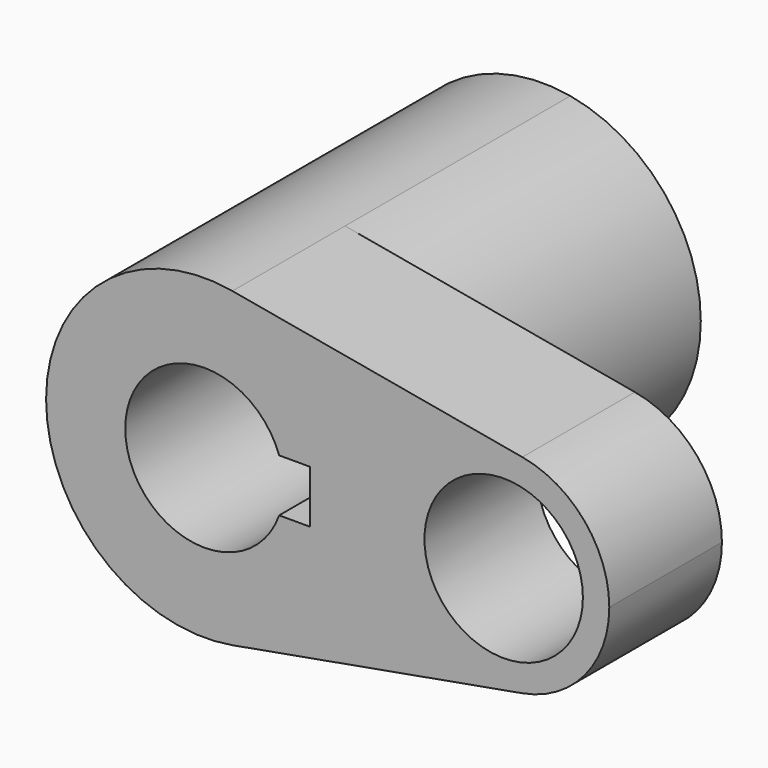
from build123d import *

# Parameters (mm, degrees)
F0_R     = 14.2875
F1_DEPTH = 25.4
F2_DEPTH = 50.8


with BuildPart() as f1:
    # F0 (on Front) → F1 (new body)
    with BuildSketch(Plane.XZ):
        with BuildLine():
            ThreePointArc((5.0426470588, -28.1265414802), (21.9160245563, -18.3362616868), (28.575, 0))
            ThreePointArc((28.575, 0), (21.9160245563, 18.3362616868), (5.0426470588, 28.1265414802))
            ThreePointArc((5.0426470588, 28.1265414802), (-28.575, 0), (5.0426470588, -28.1265414802))
        make_face()
        with BuildLine():
            ThreePointArc((-13.4703841816, 4.7625), (0, 14.2875), (13.4703841816, 4.7625))
            Line((13.4703841816, 4.7625), (19.05, 4.7625))
            Line((19.05, 4.7625), (19.05, -4.7625))
            Line((19.05, -4.7625), (13.4703841816, -4.7625))
            ThreePointArc((13.4703841816, -4.7625), (0, -14.2875), (-13.4703841816, -4.7625))
            Line((-13.4703841816, -4.7625), (-19.05, -4.7625))
            Line((-19.05, -4.7625), (-19.05, 4.7625))
            Line((-19.05, 4.7625), (-13.4703841816, 4.7625))
        make_face(mode=Mode.SUBTRACT)
        with BuildLine():
            ThreePointArc((73.025, 0), (68.5856830375, 12.2241744579), (57.3367647059, 18.7510276535))
            ThreePointArc((57.3367647059, 18.7510276535), (34.925, 0), (57.3367647059, -18.7510276535))
            ThreePointArc((57.3367647059, -18.7510276535), (68.5856830375, -12.2241744579), (73.025, 0))
        make_face()
        with Locations((53.975, 0)):
            Circle(F0_R, mode=Mode.SUBTRACT)
        with BuildLine():
            ThreePointArc((5.0426470588, 28.1265414802), (21.9160245563, 18.3362616868), (28.575, 0))
            ThreePointArc((28.575, 0), (21.9160245563, -18.3362616868), (5.0426470588, -28.1265414802))
            Line((5.0426470588, -28.1265414802), (57.3367647059, -18.7510276535))
            ThreePointArc((57.3367647059, -18.7510276535), (34.925, 0), (57.3367647059, 18.7510276535))
            Line((57.3367647059, 18.7510276535), (5.0426470588, 28.1265414802))
        make_face()
        with BuildLine():
            ThreePointArc((-13.4703841816, -4.7625), (-14.2875, 0), (-13.4703841816, 4.7625))
            Line((-13.4703841816, 4.7625), (-19.05, 4.7625))
            Line((-19.05, 4.7625), (-19.05, -4.7625))
            Line((-19.05, -4.7625), (-13.4703841816, -4.7625))
        make_face()
    extrude(amount=F1_DEPTH)

    # F0 (on Front) → F2 (join)
    with BuildSketch(Plane.XZ):
        with BuildLine():
            ThreePointArc((5.0426470588, -28.1265414802), (21.9160245563, -18.3362616868), (28.575, 0))
            ThreePointArc((28.575, 0), (21.9160245563, 18.3362616868), (5.0426470588, 28.1265414802))
            ThreePointArc((5.0426470588, 28.1265414802), (-28.575, 0), (5.0426470588, -28.1265414802))
        make_face()
        with BuildLine():
            ThreePointArc((-13.4703841816, 4.7625), (0, 14.2875), (13.4703841816, 4.7625))
            Line((13.4703841816, 4.7625), (19.05, 4.7625))
            Line((19.05, 4.7625), (19.05, -4.7625))
            Line((19.05, -4.7625), (13.4703841816, -4.7625))
            ThreePointArc((13.4703841816, -4.7625), (0, -14.2875), (-13.4703841816, -4.7625))
            Line((-13.4703841816, -4.7625), (-19.05, -4.7625))
            Line((-19.05, -4.7625), (-19.05, 4.7625))
            Line((-19.05, 4.7625), (-13.4703841816, 4.7625))
        make_face(mode=Mode.SUBTRACT)
        with BuildLine():
            ThreePointArc((-13.4703841816, -4.7625), (-14.2875, 0), (-13.4703841816, 4.7625))
            Line((-13.4703841816, 4.7625), (-19.05, 4.7625))
            Line((-19.05, 4.7625), (-19.05, -4.7625))
            Line((-19.05, -4.7625), (-13.4703841816, -4.7625))
        make_face()
    extrude(amount=-F2_DEPTH)


solid = f1.part
